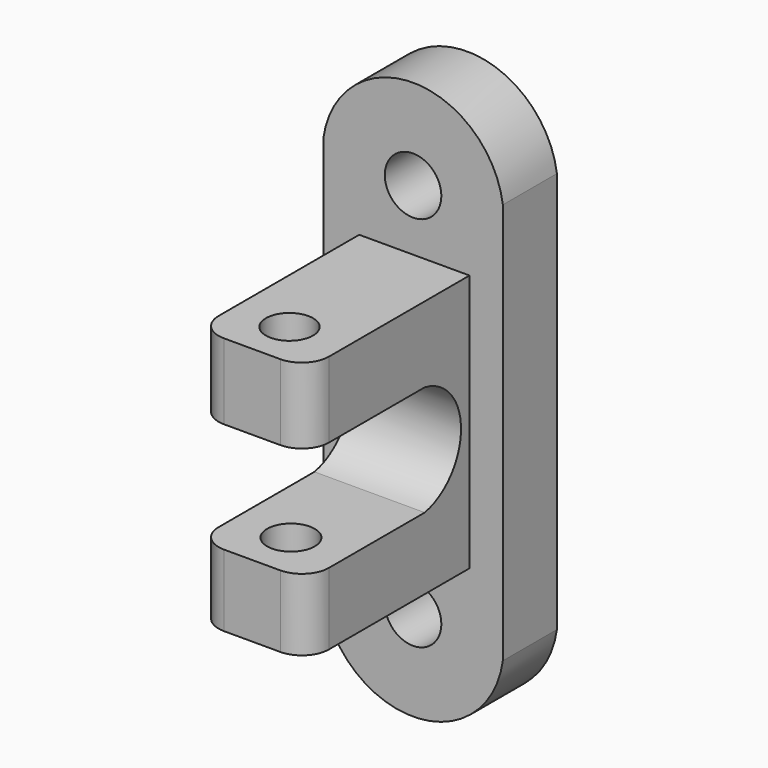
from build123d import *

# Parameters (mm, degrees)
F0_R      = 5.3136453871
F1_DEPTH  = 12.7
F2_W      = 20.7254816778
F2_H      = 14.2186461017
F2_H_2    = 13.4956622496
F3_DEPTH  = 50.8
F4_R      = 5.08
F5_R      = 4.4744147094
F6_DEPTH  = 25.4
F7_R      = 4.4306212016
F8_DEPTH  = 25.4
F9_W      = 20.7254816778
F9_H      = 10.515610534
F10_DEPTH = 25.4
F12_DEPTH = 25.4


with BuildPart() as f1:
    # F0 (on Front) → F1 (new body)
    with BuildSketch(Plane.XZ):
        with BuildLine():
            ThreePointArc((10.7242334634, 39.4025146961), (-6.1453450471, 54.1304557314), (-23.0149235576, 39.4025146961))
            Line((-23.0149235576, 39.4025146961), (-23.0149235576, -36.0286012292))
            ThreePointArc((-23.0149235576, -36.0286012292), (-6.1453450471, -50.7565422645), (10.7242334634, -36.0286012292))
            Line((10.7242334634, -36.0286012292), (10.7242334634, 39.4025146961))
        make_face()
        with Locations((-6.1453450471, -33.7312525427)):
            Circle(F0_R, mode=Mode.SUBTRACT)
        with Locations((-6.1453450471, 37.1051660096)):
            Circle(F0_R, mode=Mode.SUBTRACT)
    extrude(amount=F1_DEPTH)

    # F2 (on Front) → F3 (join)
    with BuildSketch(Plane.XZ):
        with Locations((-5.9043520596, 18.5565375723)):
            Rectangle(F2_W, F2_H)
        with Locations((-5.9043520596, -16.0261015408)):
            Rectangle(F2_W, F2_H_2)
    extrude(amount=F3_DEPTH)

    # F4
    f4_edges = [f1.edges().sort_by_distance(p)[0] for p in [
        (4.458389, -50.8, 18.556538),
        (-16.267093, -50.8, 18.556538),
        (4.458389, -50.8, -16.026102),
        (-16.267093, -50.8, -16.026102),
    ]]
    fillet(f4_edges, radius=F4_R)

    # F5 (on face) → F6 (cut)
    with BuildSketch(Plane(origin=(0, 0, -22.7739326656), x_dir=(1, 0, 0), z_dir=(0, 0, -1))):
        with Locations((-5.9043520596, 41.6847616434)):
            Circle(F5_R)
    extrude(amount=-F6_DEPTH, mode=Mode.SUBTRACT)

    # F7 (on face) → F8 (cut)
    with BuildSketch(Plane(origin=(0, 0, 11.4472145215), x_dir=(1, 0, 0), z_dir=(0, 0, -1))):
        with Locations((-5.9701367281, 41.9478155673)):
            Circle(F7_R)
    extrude(amount=-F8_DEPTH, mode=Mode.SUBTRACT)

    # F9 (on face) → F10 (join)
    with BuildSketch(Plane.XY.offset(-9.278270416)):
        with Locations((-5.9043520596, -17.957805267)):
            Rectangle(F9_W, F9_H)
    extrude(amount=F10_DEPTH)

    # F11 (on face) → F12 (cut)
    with BuildSketch(Plane(origin=(-16.2670928985, 0, 0), x_dir=(0, -1, 0), z_dir=(-1, 0, 0))):
        with BuildLine():
            Line((23.215610534, -9.278270416), (23.215610534, 11.4472145215))
            ThreePointArc((23.215610534, 11.4472145215), (14.6873741611, 1.0844720528), (23.215610534, -9.278270416))
        make_face()
    extrude(amount=-F12_DEPTH, mode=Mode.SUBTRACT)


solid = f1.part
